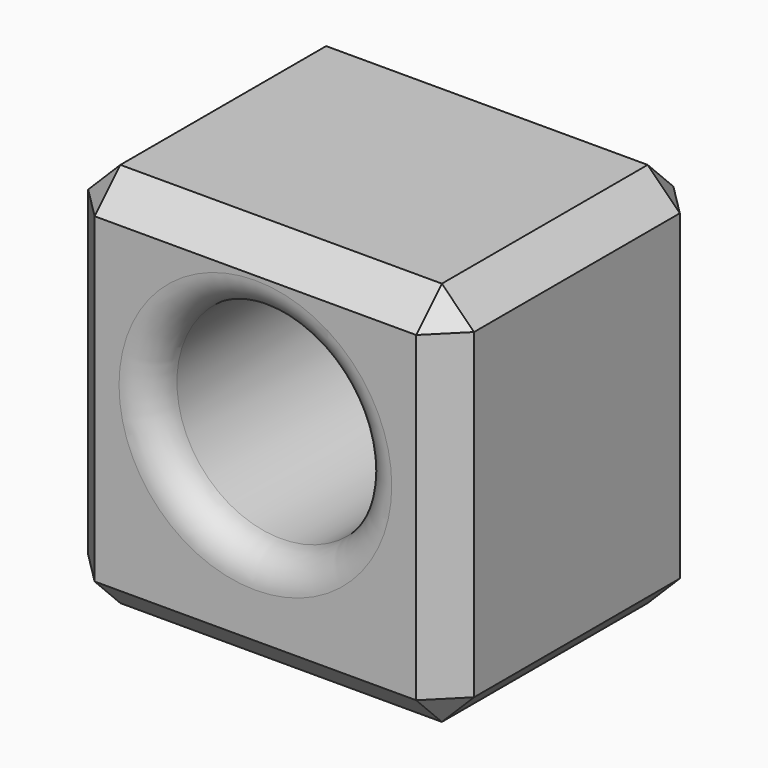
from build123d import *

# Parameters (mm, degrees)
F0_W     = 60
F0_H     = 50
F1_DEPTH = 60
F2_R     = 16.203635
F3_DEPTH = 50.001
F4_R     = 5
F5_SIZE  = 5


with BuildPart() as f1:
    # F0 (on Top) → F1 (new body)
    with BuildSketch(Plane.XY):
        Rectangle(F0_W, F0_H)
    extrude(amount=F1_DEPTH)

    # F2 (on face) → F3 (cut, through all)
    with BuildSketch(Plane.XZ.offset(25)):
        with Locations((0, 33.142988)):
            Circle(F2_R)
    extrude(amount=-F3_DEPTH, mode=Mode.SUBTRACT)

    # F4
    f4_edges = [f1.edges().sort_by_distance(p)[0] for p in [
        (-16.203635, -25, 33.142988),
        (-16.203635, 25, 33.142988),
    ]]
    fillet(f4_edges, radius=F4_R)

    # F5
    f5_edges = [f1.edges().sort_by_distance(p)[0] for p in [
        (-30, 25, 30),
        (-30, -25, 30),
        (-30, 0, 60),
        (0, 25, 60),
        (0, -25, 60),
        (0, -25, 0),
        (-30, 0, 0),
        (30, -25, 30),
        (30, 0, 60),
        (30, 25, 30),
        (30, 0, 0),
        (0, 25, 0),
    ]]
    chamfer(f5_edges, length=F5_SIZE)


solid = f1.part
